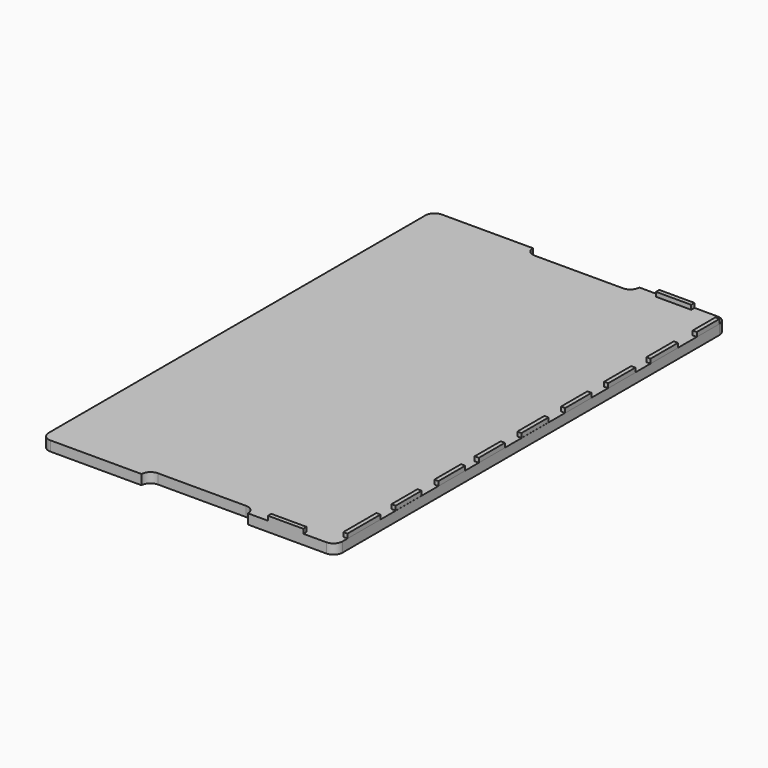
from build123d import *

# Parameters (mm, degrees)
F0_W      = 4.572
F0_H      = 45.466
F0_H_2    = 31.242
F0_H_3    = 35.814
F0_H_4    = 37.846
F0_H_5    = 36.83
F0_H_6    = 37.338
F0_H_7    = 36.322
F1_DEPTH  = 10.922
F3_DEPTH  = 10.923
F5_DEPTH  = 10.923
F6_W      = 4.572
F6_H      = 45.466
F7_DEPTH  = 4.826
F8_W      = 4.572
F8_H      = 35.814
F9_DEPTH  = 4.826
F10_W     = 4.572
F10_H     = 36.83
F11_DEPTH = 4.826
F12_W     = 4.572
F12_H     = 35.814
F13_DEPTH = 4.826
F14_W     = 4.572
F14_H     = 37.338
F15_DEPTH = 4.826
F16_W     = 4.572
F16_H     = 36.322
F17_DEPTH = 4.826
F18_W     = 4.572
F18_H     = 37.338
F19_DEPTH = 4.826
F20_W     = 4.572
F20_H     = 37.846
F21_DEPTH = 4.826
F22_W     = 4.572
F22_H     = 31.242
F23_DEPTH = 4.826
F24_W     = 38.862
F24_H     = 4.572
F25_DEPTH = 4.826
F26_W     = 38.862
F26_H     = 4.572
F27_DEPTH = 4.826


with BuildPart() as f1:
    # F0 (on Top) → F1 (new body)
    with BuildSketch(Plane.XY):
        with BuildLine():
            Line((-50.638884, 267.268687), (-151.155582, 267.268687))
            ThreePointArc((-151.155582, 267.268687), (-158.160182, 264.367287), (-161.061582, 257.362687))
            Line((-161.061582, 257.362687), (-161.061582, -261.813313))
            ThreePointArc((-161.061582, -261.813313), (-158.160182, -268.817912), (-151.155582, -271.719313))
            Line((-151.155582, -271.719313), (152.882418, -271.719313))
            ThreePointArc((152.882418, -271.719313), (159.887018, -268.817912), (162.788418, -261.813313))
            Line((162.788418, -261.813313), (162.788418, -254.955313))
            Line((162.788418, -254.955313), (158.216418, -254.955313))
            Line((158.216418, -254.955313), (158.216418, -209.489313))
            Line((158.216418, -209.489313), (162.788418, -209.489313))
            Line((162.788418, -209.489313), (162.788418, -188.407313))
            Line((162.788418, -188.407313), (158.216418, -188.407313))
            Line((158.216418, -188.407313), (158.216418, -152.593313))
            Line((158.216418, -152.593313), (162.788418, -152.593313))
            Line((162.788418, -152.593313), (162.788418, -129.733313))
            Line((162.788418, -129.733313), (158.216418, -129.733313))
            Line((158.216418, -129.733313), (158.216418, -92.903313))
            Line((158.216418, -92.903313), (162.788418, -92.903313))
            Line((162.788418, -92.903313), (162.788418, -74.107313))
            Line((162.788418, -74.107313), (158.216418, -74.107313))
            Line((158.216418, -74.107313), (158.216418, -38.293313))
            Line((158.216418, -38.293313), (162.788418, -38.293313))
            Line((162.788418, -38.293313), (162.788418, -15.179313))
            Line((162.788418, -15.179313), (158.216418, -15.179313))
            Line((158.216418, -15.179313), (158.216418, 22.158687))
            Line((158.216418, 22.158687), (162.788418, 22.158687))
            Line((162.788418, 22.158687), (162.788418, 44.764687))
            Line((162.788418, 44.764687), (158.216418, 44.764687))
            Line((158.216418, 44.764687), (158.216418, 81.086687))
            Line((158.216418, 81.086687), (162.788418, 81.086687))
            Line((162.788418, 81.086687), (162.788418, 103.946687))
            Line((162.788418, 103.946687), (158.216418, 103.946687))
            Line((158.216418, 103.946687), (158.216418, 141.284687))
            Line((158.216418, 141.284687), (162.788418, 141.284687))
            Line((162.788418, 141.284687), (162.788418, 162.366687))
            Line((162.788418, 162.366687), (158.216418, 162.366687))
            Line((158.216418, 162.366687), (158.216418, 200.212687))
            Line((158.216418, 200.212687), (162.788418, 200.212687))
            Line((162.788418, 200.212687), (162.788418, 226.120687))
            Line((162.788418, 226.120687), (158.216418, 226.120687))
            Line((158.216418, 226.120687), (158.216418, 257.362687))
            Line((158.216418, 257.362687), (162.788418, 257.362687))
            ThreePointArc((162.788418, 257.362687), (159.887018, 264.367287), (152.882418, 267.268687))
            Line((152.882418, 267.268687), (66.598618, 267.268687))
            Line((66.598618, 267.268687), (56.692618, 267.268687))
            Line((56.692618, 267.268687), (56.03563, 267.268687))
            Line((56.03563, 267.268687), (-40.811159, 267.268687))
            Line((-40.811159, 267.268687), (-41.249528, 267.268687))
            Line((-41.249528, 267.268687), (-50.638884, 267.268687))
        make_face()
        with Locations((160.502418, -232.222313)):
            Rectangle(F0_W, F0_H)
        with Locations((160.502418, 241.741687)):
            Rectangle(F0_W, F0_H_2)
        with Locations((160.502418, -170.500313)):
            Rectangle(F0_W, F0_H_3)
        with Locations((160.502418, 181.289687)):
            Rectangle(F0_W, F0_H_4)
        with Locations((160.502418, -111.318313)):
            Rectangle(F0_W, F0_H_5)
        with Locations((160.502418, 122.615687)):
            Rectangle(F0_W, F0_H_6)
        with Locations((160.502418, -56.200313)):
            Rectangle(F0_W, F0_H_3)
        with Locations((160.502418, 62.925687)):
            Rectangle(F0_W, F0_H_7)
        with Locations((160.502418, 3.489687)):
            Rectangle(F0_W, F0_H_6)
    extrude(amount=F1_DEPTH)

    # F2 (on face) → F3 (cut, through all)
    with BuildSketch(Plane.XY.offset(10.922)):
        with BuildLine():
            Line((66.59181, 267.268687), (-50.65459, 267.268687))
            ThreePointArc((-50.65459, 267.268687), (-47.75319, 260.264088), (-40.74859, 257.362687))
            Line((-40.74859, 257.362687), (56.68581, 257.362687))
            ThreePointArc((56.68581, 257.362687), (63.69041, 260.264088), (66.59181, 267.268687))
        make_face()
    extrude(amount=-F3_DEPTH, mode=Mode.SUBTRACT)

    # F4 (on face) → F5 (cut, through all)
    with BuildSketch(Plane.XY.offset(10.922)):
        with BuildLine():
            Line((56.699284, -261.813313), (-40.735632, -261.813313))
            ThreePointArc((-40.735632, -261.813313), (-47.740232, -264.714713), (-50.641632, -271.719313))
            Line((-50.641632, -271.719313), (-50.641632, -271.741477))
            Line((-50.641632, -271.741477), (66.605284, -271.741477))
            Line((66.605284, -271.741477), (66.605284, -271.719313))
            ThreePointArc((66.605284, -271.719313), (63.703884, -264.714713), (56.699284, -261.813313))
        make_face()
    extrude(amount=-F5_DEPTH, mode=Mode.SUBTRACT)

    # F6 (on face) → F7 (join)
    with BuildSketch(Plane.XY.offset(10.922)):
        with Locations((160.516776, -232.222313)):
            Rectangle(F6_W, F6_H)
    extrude(amount=F7_DEPTH)

    # F8 (on face) → F9 (join)
    with BuildSketch(Plane.XY.offset(10.922)):
        with Locations((160.412975, -170.500313)):
            Rectangle(F8_W, F8_H)
    extrude(amount=F9_DEPTH)

    # F10 (on face) → F11 (join)
    with BuildSketch(Plane.XY.offset(10.922)):
        with Locations((160.571285, -111.318313)):
            Rectangle(F10_W, F10_H)
    extrude(amount=F11_DEPTH)

    # F12 (on face) → F13 (join)
    with BuildSketch(Plane.XY.offset(10.922)):
        with Locations((160.571292, -56.200313)):
            Rectangle(F12_W, F12_H)
    extrude(amount=F13_DEPTH)

    # F14 (on face) → F15 (join)
    with BuildSketch(Plane.XY.offset(10.922)):
        with Locations((160.397649, 3.489687)):
            Rectangle(F14_W, F14_H)
    extrude(amount=F15_DEPTH)

    # F16 (on face) → F17 (join)
    with BuildSketch(Plane.XY.offset(10.922)):
        with Locations((160.66844, 62.925687)):
            Rectangle(F16_W, F16_H)
    extrude(amount=F17_DEPTH)

    # F18 (on face) → F19 (join)
    with BuildSketch(Plane.XY.offset(10.922)):
        with Locations((160.713606, 122.615687)):
            Rectangle(F18_W, F18_H)
    extrude(amount=F19_DEPTH)

    # F20 (on face) → F21 (join)
    with BuildSketch(Plane.XY.offset(10.922)):
        with Locations((160.567634, 181.289687)):
            Rectangle(F20_W, F20_H)
    extrude(amount=F21_DEPTH)

    # F22 (on face) → F23 (join)
    with BuildSketch(Plane.XY.offset(10.922)):
        with Locations((160.567634, 241.741687)):
            Rectangle(F22_W, F22_H)
    extrude(amount=F23_DEPTH)

    # F24 (on face) → F25 (join)
    with BuildSketch(Plane.XY.offset(10.922)):
        with Locations((108.051418, 264.982687)):
            Rectangle(F24_W, F24_H)
    extrude(amount=F25_DEPTH)

    # F26 (on face) → F27 (join)
    with BuildSketch(Plane.XY.offset(10.922)):
        with Locations((108.051418, -269.433313)):
            Rectangle(F26_W, F26_H)
    extrude(amount=F27_DEPTH)


solid = f1.part
